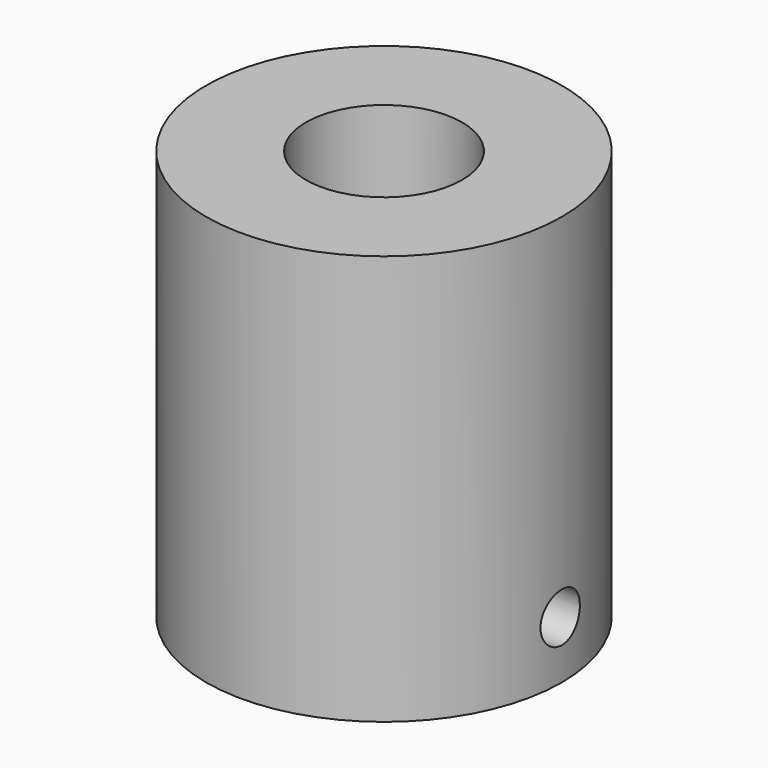
from build123d import *

# Parameters (mm, degrees)
F0_R     = 10.85
F0_R_2   = 4.7625
F1_DEPTH = 25
F2_R     = 1.5
F3_DEPTH = 12.5


with BuildPart() as f1:
    # F0 (on Top) → F1 (new body)
    with BuildSketch(Plane.XY):
        Circle(F0_R)
        Circle(F0_R_2, mode=Mode.SUBTRACT)
    extrude(amount=F1_DEPTH)

    # F2 (on Right) → F3 (cut, symmetric)
    with BuildSketch(Plane.YZ):
        with Locations((0, 3.5)):
            Circle(F2_R)
    extrude(amount=F3_DEPTH, both=True, mode=Mode.SUBTRACT)


solid = f1.part
